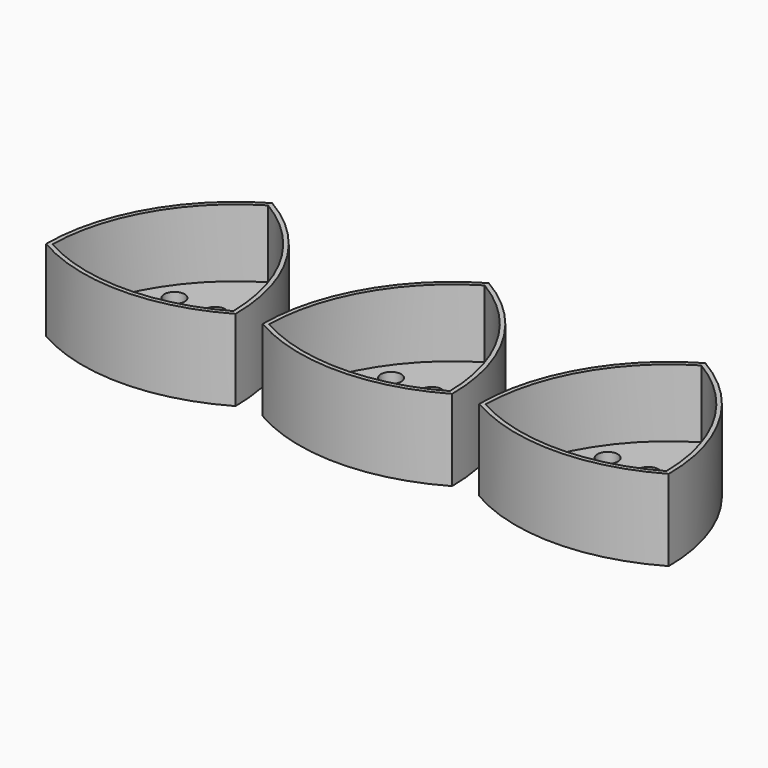
from build123d import *

# Parameters (mm, degrees)
F2_DEPTH = 9.525
F0_W     = 4.054210718
F0_H     = 4.054210718
F3_DEPTH = 3.175
F4_D     = 4.7625
F5_DEPTH = 9.525


with BuildPart() as f2:
    # F0 (on Top) → F2 (new body)
    with BuildSketch(Plane.XY):
        with BuildLine():
            ThreePointArc((-22.225, -12.2961745775), (0, -18.2513453793), (22.225, -12.2961745775))
            ThreePointArc((22.225, -12.2961745775), (16.2698291982, 9.9288254225), (0, 26.1986546207))
            ThreePointArc((0, 26.1986546207), (-16.2698291982, 9.9288254225), (-22.225, -12.2961745775))
        make_face()
        with BuildLine():
            ThreePointArc((21.2050083772, -11.7072821395), (0, -17.2353461385), (-21.2050083772, -11.7072821395))
            ThreePointArc((-21.2050083772, -11.7072821395), (-15.3899480454, 9.4208258021), (0, 25.0208697447))
            ThreePointArc((0, 25.0208697447), (15.3899480454, 9.4208258021), (21.2050083772, -11.7072821395))
        make_face(mode=Mode.SUBTRACT)
    extrude(amount=F2_DEPTH)

    # F0 (on Top) → F3 (join)
    with BuildSketch(Plane.XY):
        with BuildLine():
            ThreePointArc((0, 25.0208697447), (-15.3899480454, 9.4208258021), (-21.2050083772, -11.7072821395))
            ThreePointArc((-21.2050083772, -11.7072821395), (0, -17.2353461385), (21.2050083772, -11.7072821395))
            ThreePointArc((21.2050083772, -11.7072821395), (15.3899480454, 9.4208258021), (0, 25.0208697447))
        make_face()
        Rectangle(F0_W, F0_H, mode=Mode.SUBTRACT)
    extrude(amount=F3_DEPTH)

    # F4 (through all)
    with Locations(Plane(origin=(0, 0, 0), x_dir=(1, 0, 0), z_dir=(0, 0, -1))):
        with Locations((9.525, 0.0580770136), (9.525, 9.5830770136), (0, 9.5819265756), (-9.525, 9.5819265756), (-9.525, 0.0569265756), (-9.525, -9.4680734244), (0, -9.4680734244), (9.525, -9.4669229864)):
            Hole(F4_D / 2)

    # F5 (add): a face of the model
    f5_faces = [f2.faces().sort_by_distance(p)[0] for p in [
        (0, -17.6227274508, 9.525),
    ]]
    extrude(f5_faces, amount=F5_DEPTH)


with BuildPart() as f7_1:
    # F7: instance of F2
    add(f2.part.mirror(Plane.YZ.offset(25.4)))


with BuildPart() as f9_1:
    # F9: instance of F2
    add(f2.part.mirror(Plane.YZ.offset(-25.4)))


solid = Compound([f2.part, f7_1.part, f9_1.part])
